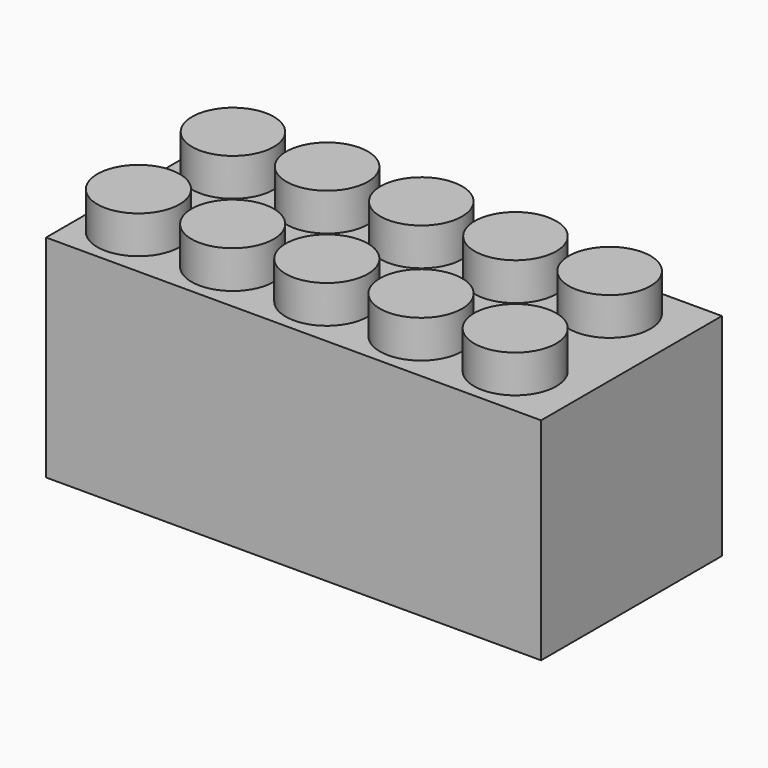
from build123d import *

# Parameters (mm, degrees)
F0_W      = 131.4026266336
F0_H      = 56.0864862055
F1_DEPTH  = 60
F2_R      = 10.9077642955
F3_DEPTH  = 10
F4_R      = 10.8428026433
F5_DEPTH  = 10
F6_W      = 126.3662874699
F6_H      = 54.2550897226
F6_R      = 5.3589813308
F6_R_2    = 14.1599191497
F6_R_3    = 5.3638725935
F6_R_4    = 11.6614642788
F7_DEPTH  = 25
F8_DEPTH  = 30
F9_W      = 5.9520327486
F9_H      = 60
F10_DEPTH = 49.7
F11_R     = 11.6614642788
F12_DEPTH = 25


with BuildPart() as f1:
    # F0 (on Front) → F1 (new body)
    with BuildSketch(Plane.XZ):
        with Locations((0.6867721677, -6.2954211608)):
            Rectangle(F0_W, F0_H)
    extrude(amount=F1_DEPTH)

    # F2 (on face) → F3 (join)
    with BuildSketch(Plane.XY.offset(21.747821942)):
        with Locations((-51.6166612506, -46.0898727179)):
            Circle(F2_R)
        with Locations((-26.6166612506, -46.0898727179)):
            Circle(F2_R)
        with Locations((-1.6166612506, -46.0898727179)):
            Circle(F2_R)
        with Locations((23.3833387494, -46.0898727179)):
            Circle(F2_R)
        with Locations((48.3833387494, -46.0898727179)):
            Circle(F2_R)
    extrude(amount=F3_DEPTH)

    # F4 (on face) → F5 (join)
    with BuildSketch(Plane.XY.offset(21.747821942)):
        with Locations((-52.4114146829, -13.7527212501)):
            Circle(F4_R)
        with Locations((-27.4114146829, -13.7527212501)):
            Circle(F4_R)
        with Locations((-2.4114146829, -13.7527212501)):
            Circle(F4_R)
        with Locations((22.5885853171, -13.7527212501)):
            Circle(F4_R)
        with Locations((47.5885853171, -13.7527212501)):
            Circle(F4_R)
    extrude(amount=F5_DEPTH)

    # F6 (on face) → F7 (cut)
    with BuildSketch(Plane(origin=(0, 0, -34.3386642635), x_dir=(1, 0, 0), z_dir=(0, 0, -1))):
        with Locations((0.9156987071, 29.8746381886)):
            Rectangle(F6_W, F6_H)
        with Locations((-55.1707856357, 11.4462208003)):
            Circle(F6_R, mode=Mode.SUBTRACT)
        with Locations((-17.1707856357, 11.4462208003)):
            Circle(F6_R, mode=Mode.SUBTRACT)
        with Locations((20.8292143643, 11.4462208003)):
            Circle(F6_R, mode=Mode.SUBTRACT)
        with Locations((56.1292143643, 11.4462208003)):
            Circle(F6_R, mode=Mode.SUBTRACT)
        with Locations((-38.5763026357, 30.70631437)):
            Circle(F6_R_2, mode=Mode.SUBTRACT)
        with Locations((1.3236973643, 30.70631437)):
            Circle(F6_R_2, mode=Mode.SUBTRACT)
        with Locations((-54.7129400074, 48.989828676)):
            Circle(F6_R_3, mode=Mode.SUBTRACT)
        with Locations((-17.8129400074, 48.989828676)):
            Circle(F6_R_3, mode=Mode.SUBTRACT)
        with Locations((41.2236973643, 30.70631437)):
            Circle(F6_R_2, mode=Mode.SUBTRACT)
        with Locations((19.0870599926, 48.989828676)):
            Circle(F6_R_3, mode=Mode.SUBTRACT)
        with Locations((56.1870599926, 48.989828676)):
            Circle(F6_R_3, mode=Mode.SUBTRACT)
        with Locations((-38.5763026357, 30.70631437)):
            Circle(F6_R_4)
        with Locations((1.2236973643, 30.70631437)):
            Circle(F6_R_4)
        with Locations((41.0236973643, 30.70631437)):
            Circle(F6_R_4)
    extrude(amount=-F7_DEPTH, mode=Mode.SUBTRACT)

    # F8 (cut): faces of the model
    f8_faces = [f1.faces().sort_by_distance(p)[0] for p in [
        (-54.7129400074, -48.989828676, -34.3386642635),
        (-17.8129400074, -48.989828676, -34.3386642635),
        (19.0870599926, -48.989828676, -34.3386642635),
        (56.1870599926, -48.989828676, -34.3386642635),
        (56.1292143643, -11.4462208003, -34.3386642635),
        (20.8292143643, -11.4462208003, -34.3386642635),
        (-17.1707856357, -11.4462208003, -34.3386642635),
        (-55.1707856357, -11.4462208003, -34.3386642635),
    ]]
    extrude(f8_faces, amount=-F8_DEPTH, mode=Mode.SUBTRACT)

    # F9 (on face) → F10 (join)
    with BuildSketch(Plane.XY.offset(21.747821942)):
        with Locations((0, -30)):
            Rectangle(F9_W, F9_H)
    extrude(amount=-F10_DEPTH)

    # F11 (on face) → F12 (cut, through all)
    with BuildSketch(Plane(origin=(0, 0, -34.3386642635), x_dir=(1, 0, 0), z_dir=(0, 0, -1))):
        with Locations((1.2236973643, 30.70631437)):
            Circle(F11_R)
    extrude(amount=-F12_DEPTH, mode=Mode.SUBTRACT)


solid = f1.part
